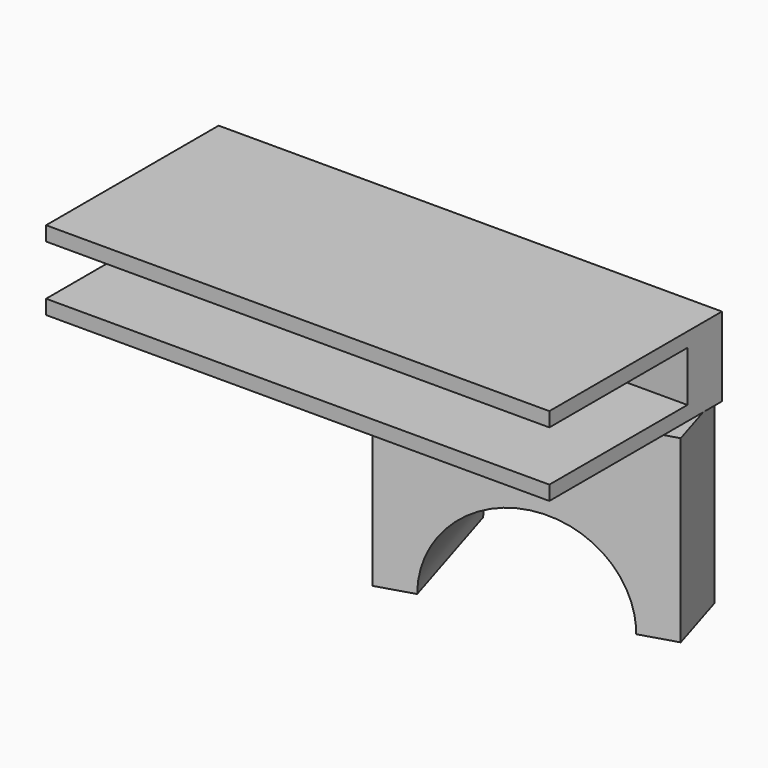
from build123d import *

# Parameters (mm, degrees)
SKETCH_W        = 70
SKETCH_H        = 30
PAD_DEPTH       = 5.5
SKETCH001_W     = 114.652
SKETCH001_H     = 7
POCKET_DEPTH    = 24
PAD001_DEPTH    = 25
SKETCH004_R     = 12.8
POCKET001_DEPTH = 30.174648


with BuildPart() as part:
    # Sketch → Pad (new body, symmetric)
    with BuildSketch(Plane.XY):
        with Locations((-35, -15)):
            Rectangle(SKETCH_W, SKETCH_H)
    extrude(amount=PAD_DEPTH, both=True)

    # Sketch001 → Pocket (cut)
    with BuildSketch(Plane.XZ.offset(30)):
        with Locations((-38.5063, 0)):
            Rectangle(SKETCH001_W, SKETCH001_H)
    extrude(amount=-POCKET_DEPTH, mode=Mode.SUBTRACT)

    # Sketch003 → Pad001 (new body)
    with BuildSketch(Plane(origin=(0, 0, -5.5), x_dir=(1, 0, 0), z_dir=(0, 0, -1))):
        Polygon((-38.644903, 0), (-1, 0), (1.923717, 9.563048), (-32.503254, 20.088429), align=None)
        Polygon((-38.644903, 0), (-1, 0), align=None)
    extrude(amount=PAD001_DEPTH)

    # Sketch004 → Pocket001 (cut, through all)
    with BuildSketch(Plane(origin=(2.838236, -9.283451, 0), x_dir=(0.956305, 0.292372, 0), z_dir=(0.292372, -0.956305, 0))):
        with Locations((-18.956305, -30.5)):
            Circle(SKETCH004_R)
    extrude(amount=-POCKET001_DEPTH, mode=Mode.SUBTRACT)


solid = part.part
